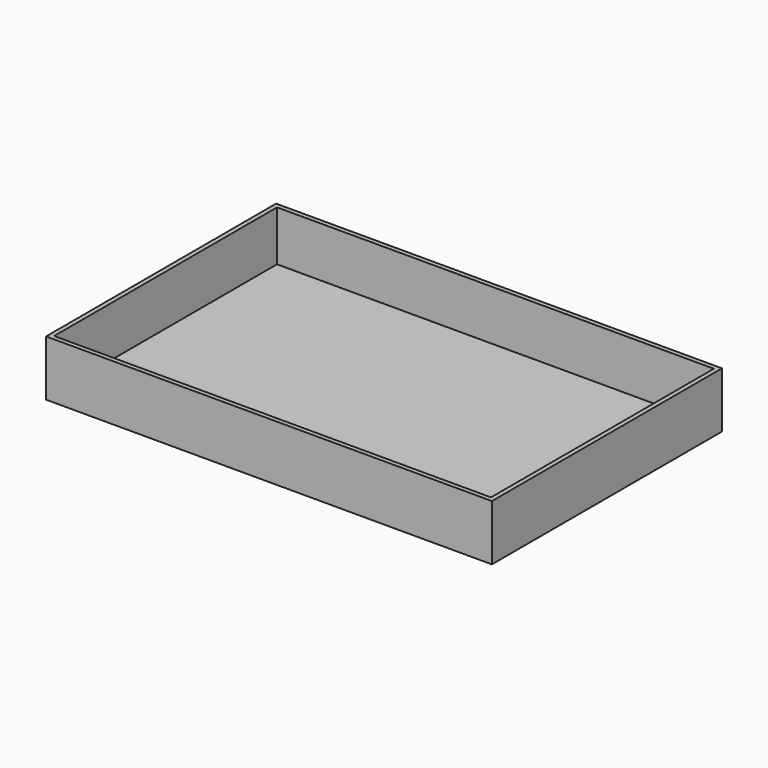
from build123d import *

# Parameters (mm, degrees)
F0_W     = 800
F0_H     = 100
F1_DEPTH = 8
F2_W     = 500
F2_H     = 100
F3_DEPTH = 8
F4_W     = 792
F4_H     = 100
F4_W_2   = 8
F5_DEPTH = 8
F6_W     = 500
F6_H     = 100
F7_DEPTH = 8
F8_W     = 784
F8_H     = 500
F9_DEPTH = 10


with BuildPart() as f1:
    # F0 (on Front) → F1 (new body)
    with BuildSketch(Plane.XZ):
        Rectangle(F0_W, F0_H)
    extrude(amount=F1_DEPTH)

    # F2 (on face) → F3 (join)
    with BuildSketch(Plane.YZ.offset(400)):
        with Locations((250, 0)):
            Rectangle(F2_W, F2_H)
    extrude(amount=-F3_DEPTH)

    # F4 (on face) → F5 (join)
    with BuildSketch(Plane(origin=(0, 500, 0), x_dir=(-1, 0, 0), z_dir=(0, 1, 0))):
        with Locations((4, 0)):
            Rectangle(F4_W, F4_H)
        with Locations((-396, 0)):
            Rectangle(F4_W_2, F4_H)
    extrude(amount=F5_DEPTH)

    # F6 (on face) → F7 (join)
    with BuildSketch(Plane(origin=(-400, 0, 0), x_dir=(0, -1, 0), z_dir=(-1, 0, 0))):
        with Locations((-250, 0)):
            Rectangle(F6_W, F6_H)
    extrude(amount=-F7_DEPTH)

    # F8 (on face) → F9 (join)
    with BuildSketch(Plane(origin=(0, 0, -50), x_dir=(1, 0, 0), z_dir=(0, 0, -1))):
        with Locations((0, -250)):
            Rectangle(F8_W, F8_H)
    extrude(amount=-F9_DEPTH)


solid = f1.part
